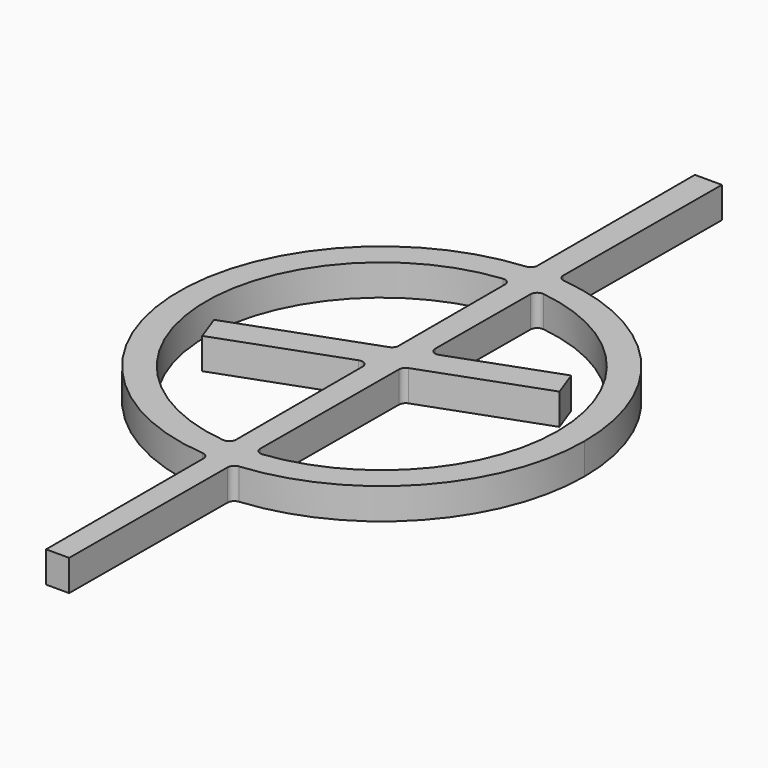
from build123d import *

# Parameters (mm, degrees)
F1_DEPTH = 2.3
F2_R     = 0.5


with BuildPart() as f1:
    # F0 (on Top) → F1 (new body)
    with BuildSketch(Plane.XY):
        with BuildLine():
            Line((1.0339955895, 2.937748485), (1.0830204392, 12.9582884673))
            ThreePointArc((1.0830204392, 12.9582884673), (0.1250473748, 13.0028664697), (-0.8336058356, 12.9767204865))
            Line((-0.8336058356, 12.9767204865), (-0.8336058356, 2.2579971568))
            Line((-0.8336058356, 2.2579971568), (1.0339955895, 2.937748485))
        make_face()
        with BuildLine():
            Line((1.0830204392, 12.9582884673), (1.0928313692, 14.9636146647))
            ThreePointArc((1.0928313692, 14.9636146647), (0.1298807218, 15.0029055597), (-0.8336058356, 14.9802919046))
            Line((-0.8336058356, 14.9802919046), (-0.8336058356, 12.9767204865))
            ThreePointArc((-0.8336058356, 12.9767204865), (0.1250473748, 13.0028664697), (1.0830204392, 12.9582884673))
        make_face()
        with BuildLine():
            Line((1.1663941644, 29.9996409675), (0, 29.9996409675))
            Line((0, 29.9996409675), (-0.8336058356, 29.9996409675))
            Line((-0.8336058356, 29.9996409675), (-0.8336058356, 14.9802919046))
            ThreePointArc((-0.8336058356, 14.9802919046), (0.1298807218, 15.0029055597), (1.0928313692, 14.9636146647))
            Line((1.0928313692, 14.9636146647), (1.1663941644, 29.9996409675))
        make_face()
        with BuildLine():
            ThreePointArc((15.0034677404, 0), (10.9886374139, 10.2153752756), (1.0928313692, 14.9636146647))
            Line((1.0928313692, 14.9636146647), (1.0830204392, 12.9582884673))
            ThreePointArc((1.0830204392, 12.9582884673), (9.5700886782, 8.8036115297), (13.0034677404, 0))
            ThreePointArc((13.0034677404, 0), (9.526903556, -8.8503266555), (0.9561764372, -12.9682651074))
            Line((0.9561764372, -12.9682651074), (0.9463655073, -14.9735913048))
            ThreePointArc((0.9463655073, -14.9735913048), (10.9385284338, -10.2690135816), (15.0034677404, 0))
        make_face()
        with BuildLine():
            Line((-0.8336058356, 12.9767204865), (-0.8336058356, 14.9802919046))
            ThreePointArc((-0.8336058356, 14.9802919046), (-15.0034677404, 0), (-0.8336058356, -14.9802919046))
            Line((-0.8336058356, -14.9802919046), (-0.8336058356, -12.9767204865))
            ThreePointArc((-0.8336058356, -12.9767204865), (-13.0034677404, 0), (-0.8336058356, 12.9767204865))
        make_face()
        Polygon((-0.8336058356, 0), (-0.8336058356, 2.2579971568), (-11.1969202983, -1.5139408359), (-10.4689798298, -3.5139408359), (-0.8336058356, -0.0069515061), align=None)
        Polygon((9.2692607406, 5.9351398713), (1.0339955895, 2.937748485), (1.0228947059, 0.668759431), (9.9972012091, 3.9351398713), align=None)
        Polygon((1.0228947059, 0.668759431), (1.0339955895, 2.937748485), (-0.8336058356, 2.2579971568), (-0.8336058356, 0), (-0.8336058356, -0.0069515061), align=None)
        with BuildLine():
            Line((-0.8336058356, -0.0069515061), (-0.8336058356, -12.9767204865))
            ThreePointArc((-0.8336058356, -12.9767204865), (0.0614309486, -13.0033226336), (0.9561764372, -12.9682651074))
            Line((0.9561764372, -12.9682651074), (1.0228947059, 0.668759431))
            Line((1.0228947059, 0.668759431), (-0.8336058356, -0.0069515061))
        make_face()
        with BuildLine():
            Line((-0.8336058356, -12.9767204865), (-0.8336058356, -14.9802919046))
            ThreePointArc((-0.8336058356, -14.9802919046), (0.0564792918, -15.0033614342), (0.9463655073, -14.9735913048))
            Line((0.9463655073, -14.9735913048), (0.9561764372, -12.9682651074))
            ThreePointArc((0.9561764372, -12.9682651074), (0.0614309486, -13.0033226336), (-0.8336058356, -12.9767204865))
        make_face()
        with BuildLine():
            ThreePointArc((0.9463655073, -14.9735913048), (0.0564792918, -15.0033614342), (-0.8336058356, -14.9802919046))
            Line((-0.8336058356, -14.9802919046), (-0.8336058356, -29.9996409675))
            Line((-0.8336058356, -29.9996409675), (0.8728515222, -29.9996409675))
            Line((0.8728515222, -29.9996409675), (0.9463655073, -14.9735913048))
        make_face()
    extrude(amount=F1_DEPTH)

    # F2
    f2_edges = [f1.edges().sort_by_distance(p)[0] for p in [
        (-0.833606, 14.980292, 1.15),
        (1.092831, 14.963615, 1.15),
        (1.033996, 2.937748, 1.15),
        (0.956176, -12.968265, 1.15),
        (-0.833606, 2.257997, 1.15),
        (-0.833606, -12.97672, 1.15),
        (-0.833606, 12.97672, 1.15),
        (-0.833606, -0.006952, 1.15),
        (-0.833606, -14.980292, 1.15),
        (0.946366, -14.973591, 1.15),
        (1.08302, 12.958288, 1.15),
        (1.022895, 0.668759, 1.15),
    ]]
    fillet(f2_edges, radius=F2_R)


solid = f1.part
